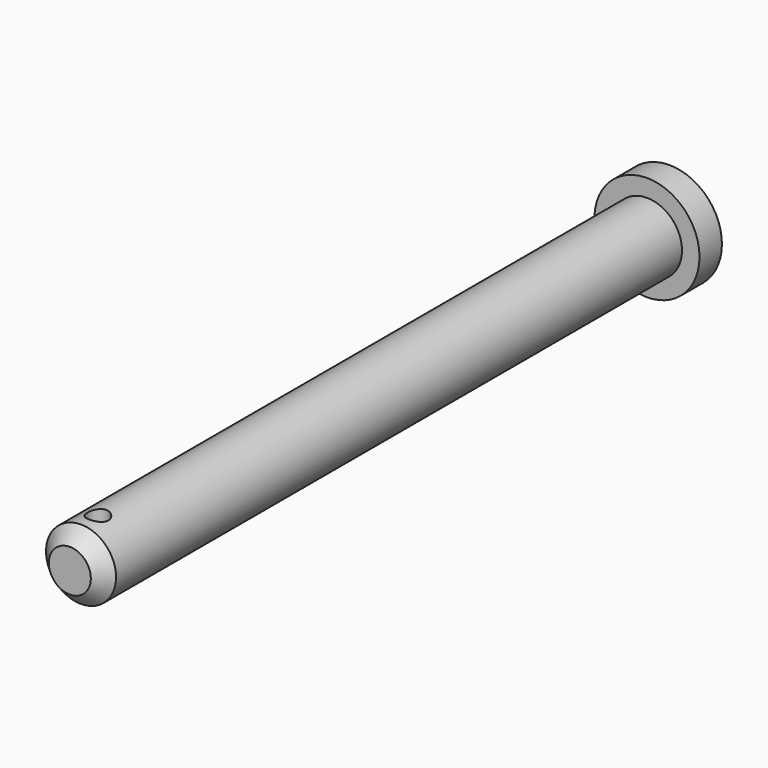
from build123d import *

# Parameters (mm, degrees)
F0_R     = 7.5
F1_DEPTH = 4
F2_R     = 5
F3_DEPTH = 103
F4_R     = 1.5
F5_DEPTH = 12.5
F6_SIZE  = 2


with BuildPart() as f1:
    # F0 (on Front) → F1 (new body)
    with BuildSketch(Plane.XZ):
        Circle(F0_R)
    extrude(amount=F1_DEPTH)

    # F2 (on face) → F3 (join)
    with BuildSketch(Plane.XZ.offset(4)):
        Circle(F2_R)
    extrude(amount=F3_DEPTH)

    # F4 (on Top) → F5 (cut, symmetric)
    with BuildSketch(Plane.XY):
        with Locations((0, -102)):
            Circle(F4_R)
    extrude(amount=F5_DEPTH, both=True, mode=Mode.SUBTRACT)

    # F6
    f6_edges = [f1.edges().sort_by_distance(p)[0] for p in [
        (-5, -107, 0),
    ]]
    chamfer(f6_edges, length=F6_SIZE)


solid = f1.part
